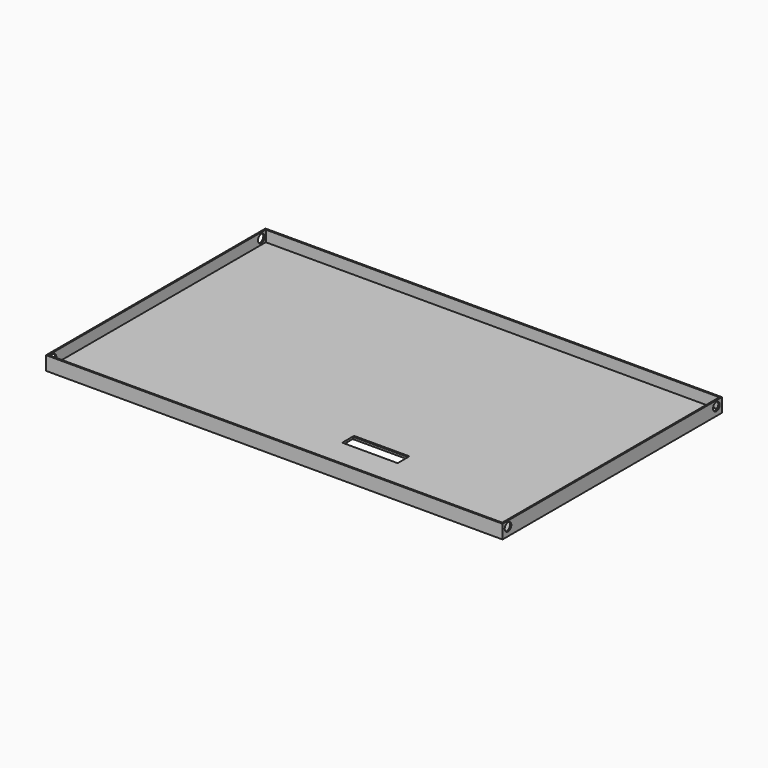
from build123d import *

# Parameters (mm, degrees)
SKETCH_W        = 329.5
SKETCH_H        = 198
SKETCH_W_2      = 327.5
SKETCH_H_2      = 196
PAD_DEPTH       = 8
SKETCH001_W     = 329.5
SKETCH001_H     = 198
PAD001_DEPTH    = 2
SKETCH002_W     = 40
SKETCH002_H     = 10
POCKET_DEPTH    = 2.001
CHAMFER_SIZE    = 0.15
CHAMFER001_SIZE = 0.5
CHAMFER002_SIZE = 0.5
SKETCH003_R     = 3
POCKET001_DEPTH = 329.501


with BuildPart() as part:
    # Sketch → Pad (new body)
    with BuildSketch(Plane.XY):
        with Locations((164.75, 99)):
            Rectangle(SKETCH_W, SKETCH_H)
        with Locations((164.75, 99)):
            Rectangle(SKETCH_W_2, SKETCH_H_2, mode=Mode.SUBTRACT)
    extrude(amount=PAD_DEPTH)

    # Sketch001 (on Face9 of Pad) → Pad001 (join)
    with BuildSketch(Plane(origin=(0, 0, 0), x_dir=(1, 0, 0), z_dir=(0, 0, -1))):
        with Locations((164.75, -99)):
            Rectangle(SKETCH001_W, SKETCH001_H)
    extrude(amount=PAD001_DEPTH)

    # Sketch002 (on Face15 of Pad001) → Pocket (cut, through all)
    with BuildSketch(Plane.XY):
        with Locations((207.5, 38)):
            Rectangle(SKETCH002_W, SKETCH002_H)
    extrude(amount=-POCKET_DEPTH, mode=Mode.SUBTRACT)

    # Chamfer
    chamfer_edges = [part.edges().sort_by_distance(p)[0] for p in [
        (207.5, 33, 0),
    ]]
    chamfer(chamfer_edges, length=CHAMFER_SIZE)

    # Chamfer001
    chamfer001_edges = [part.edges().sort_by_distance(p)[0] for p in [
        (207.5, 43, 0),
    ]]
    chamfer(chamfer001_edges, length=CHAMFER001_SIZE)

    # Chamfer002
    chamfer002_edges = [part.edges().sort_by_distance(p)[0] for p in [
        (187.5, 38, -2),
        (227.5, 38, -2),
    ]]
    chamfer(chamfer002_edges, length=CHAMFER002_SIZE)

    # Sketch003 (on Face21 of Chamfer002) → Pocket001 (cut, through all)
    with BuildSketch(Plane(origin=(0, 0, 0), x_dir=(0, -1, 0), z_dir=(-1, 0, 0))):
        with Locations((-193, 4)):
            Circle(SKETCH003_R)
        with Locations((-5, 4)):
            Circle(SKETCH003_R)
    extrude(amount=-POCKET001_DEPTH, mode=Mode.SUBTRACT)


solid = part.part
